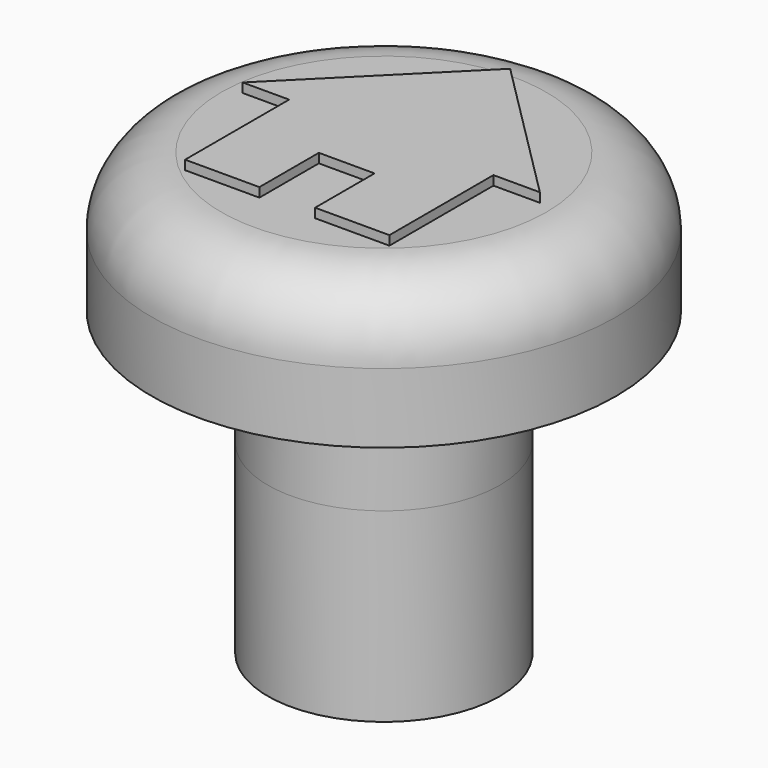
from build123d import *

# Parameters (mm, degrees)
SKETCH046_R     = 2.5
PAD023_DEPTH    = 2.5
SKETCH047_R     = 5
PAD024_DEPTH    = 3
FILLET003_R     = 1.5
SKETCH049_R     = 2.5
PAD025_DEPTH    = 4
SKETCH050_R     = 1.5
POCKET026_DEPTH = 4
PAD051_DEPTH    = 0.2


with BuildPart() as part:
    # Sketch046 → Pad023 (new body)
    with BuildSketch(Plane(origin=(0, 0, 30), x_dir=(1, 0, 0), z_dir=(0, 0, -1))):
        with Locations((101, 55)):
            Circle(SKETCH046_R)
    extrude(amount=-PAD023_DEPTH)

    # Sketch047 (on Face3 of Pad023) → Pad024 (join)
    with BuildSketch(Plane.XY.offset(32.5)):
        with Locations((101, -55)):
            Circle(SKETCH047_R)
    extrude(amount=PAD024_DEPTH)

    # Fillet003
    fillet003_edges = [part.edges().sort_by_distance(p)[0] for p in [
        (96, -55, 35.5),
    ]]
    fillet(fillet003_edges, radius=FILLET003_R)

    # Sketch049 → Pad025 (join)
    with BuildSketch(Plane(origin=(0, 0, 30), x_dir=(1, 0, 0), z_dir=(0, 0, -1))):
        with Locations((101, 55)):
            Circle(SKETCH049_R)
    extrude(amount=PAD025_DEPTH)

    # Sketch050 (on Face17 of Pad025) → Pocket026 (cut)
    with BuildSketch(Plane(origin=(0, 0, 26), x_dir=(1, 0, 0), z_dir=(0, 0, -1))):
        with Locations((101, 55)):
            Circle(SKETCH050_R)
    extrude(amount=-POCKET026_DEPTH, mode=Mode.SUBTRACT)


with BuildPart() as part_1:
    # Body002 placement: moved
    add(part.part.moved(Location((75, 0, 0))))

    # Sketch085 (on Face4 of Clone003) → Pad051 (new body)
    with BuildSketch(Plane(origin=(176, -55, 35.5), x_dir=(1, 0, 0), z_dir=(0, 0, 1))):
        Polygon((-0.6, -2.6), (-0.6, -1), (0.6, -1), (0.6, -2.6), (2.2, -2.6), (2.2, 0.2), (3.2, 0.2), (0, 3.4), (-3.2, 0.2), (-2.2, 0.2), (-2.2, -2.6), align=None)
    extrude(amount=PAD051_DEPTH)


with BuildPart() as part_2:
    # Body009 placement: moved
    add(part_1.part.moved(Location((-160.5, 0, 0))))


solid = part_2.part
